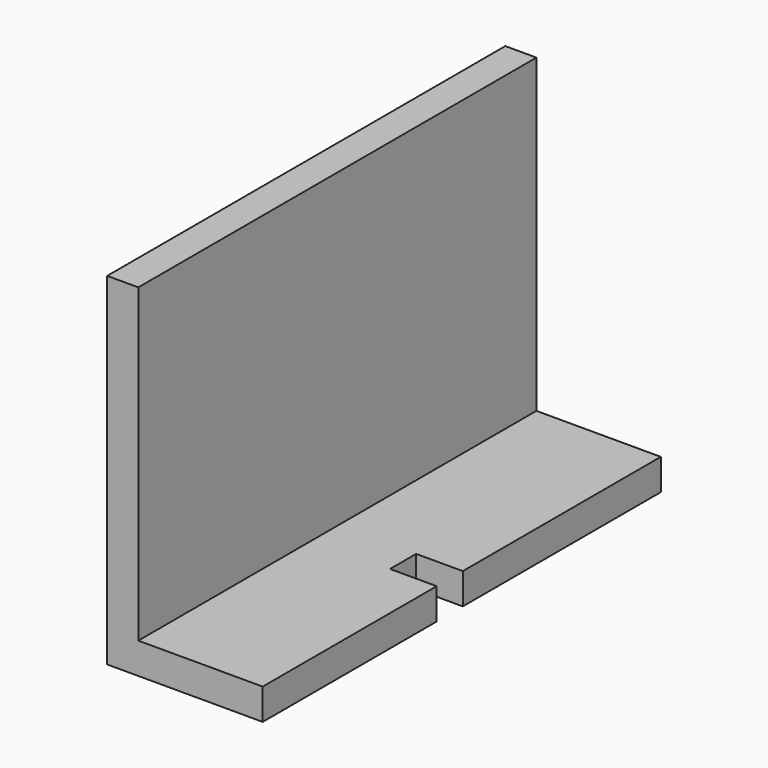
from build123d import *

# Parameters (mm, degrees)
SKETCH034_W     = 10
SKETCH034_H     = 32
PAD018_DEPTH    = 2
SKETCH035_W     = 2
SKETCH035_H     = 32
PAD019_DEPTH    = 20
SKETCH036_W     = 3
SKETCH036_H     = 2.1
POCKET020_DEPTH = 2


with BuildPart() as part:
    # Sketch034 → Pad018 (new body)
    with BuildSketch(Plane.XY):
        with Locations((5, 16)):
            Rectangle(SKETCH034_W, SKETCH034_H)
    extrude(amount=PAD018_DEPTH)

    # Sketch035 (on Face6 of Pad018) → Pad019 (join)
    with BuildSketch(Plane.XY.offset(2)):
        with Locations((1, 16)):
            Rectangle(SKETCH035_W, SKETCH035_H)
    extrude(amount=PAD019_DEPTH)

    # Sketch036 (on Face3 of Pad019) → Pocket020 (cut)
    with BuildSketch(Plane.XY.offset(2)):
        with Locations((8.5, 15.0335876781)):
            Rectangle(SKETCH036_W, SKETCH036_H)
    extrude(amount=-POCKET020_DEPTH, mode=Mode.SUBTRACT)


with BuildPart() as part_1:
    # Body005 placement: moved
    add(part.part.moved(Location((-22.8412186, 2.4472869228, -1.4445826502))))


solid = part_1.part
